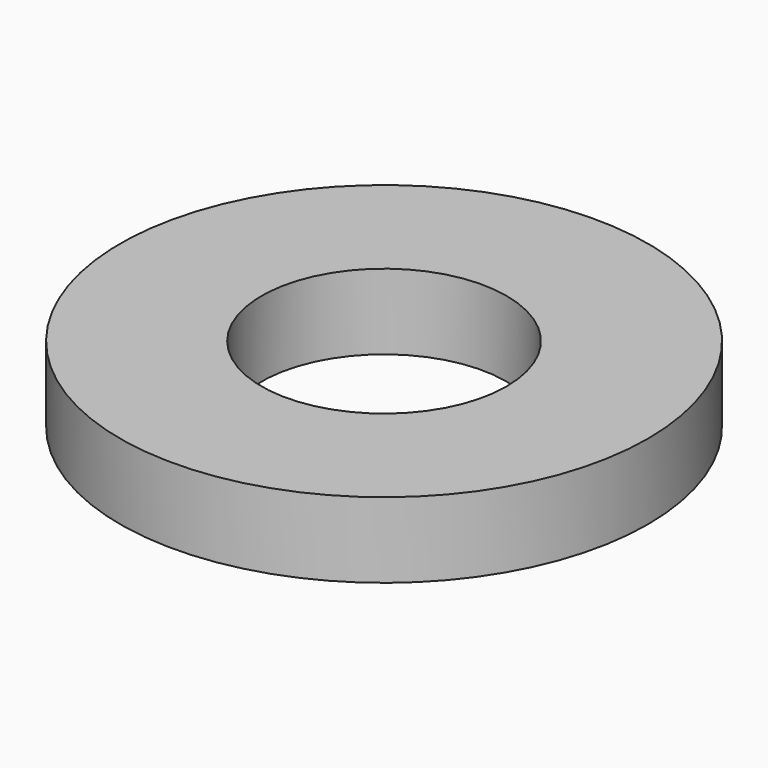
from build123d import *

# Parameters (mm, degrees)
SKETCH_R   = 3.5
SKETCH_R_2 = 1.625
PAD_DEPTH  = 1


with BuildPart() as part:
    # Sketch → Pad (new body)
    with BuildSketch(Plane.XY):
        Circle(SKETCH_R)
        Circle(SKETCH_R_2, mode=Mode.SUBTRACT)
    extrude(amount=PAD_DEPTH)


solid = part.part
